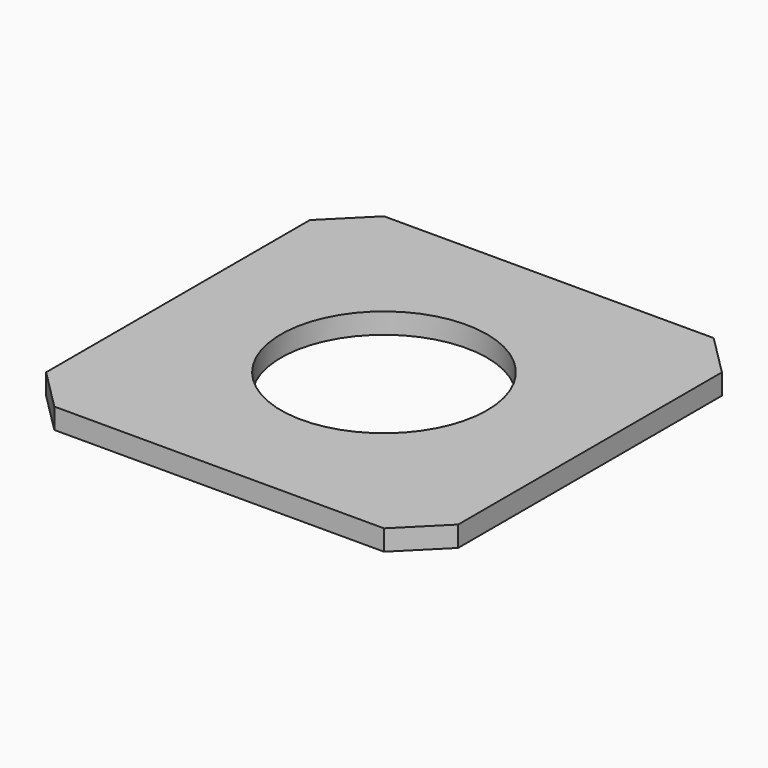
from build123d import *

# Parameters (mm, degrees)
F0_W     = 508
F0_H     = 508
F0_R     = 127
F1_DEPTH = 25.4
F2_SIZE  = 50.8


with BuildPart() as f1:
    # F0 (on Top) → F1 (new body)
    with BuildSketch(Plane.XY):
        Rectangle(F0_W, F0_H)
        Circle(F0_R, mode=Mode.SUBTRACT)
    extrude(amount=F1_DEPTH)

    # F2
    f2_edges = [f1.edges().sort_by_distance(p)[0] for p in [
        (-254, -254, 12.7),
        (254, -254, 12.7),
        (254, 254, 12.7),
        (-254, 254, 12.7),
    ]]
    chamfer(f2_edges, length=F2_SIZE)


solid = f1.part
